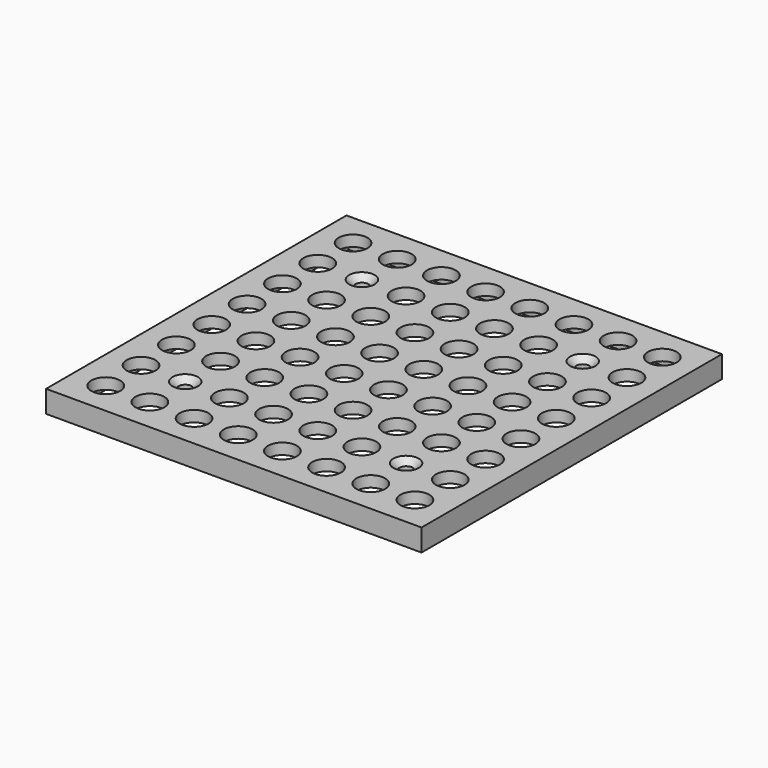
from build123d import *

# Parameters (mm, degrees)
F0_W           = 85
F0_H           = 85
F0_W_2         = 80
F0_H_2         = 80
F1_DEPTH       = 5
F0_R           = 3.25
F2_DEPTH       = 2.5
F3_D           = 3
F3_CSINK_D     = 5.75
F3_CSINK_ANGLE = 90


with BuildPart() as f1:
    # F0 (on Top) → F1 (new body)
    with BuildSketch(Plane.XY):
        Rectangle(F0_W, F0_H)
        Rectangle(F0_W_2, F0_H_2, mode=Mode.SUBTRACT)
    extrude(amount=-F1_DEPTH)

    # F0 (on Top) → F2 (join)
    with BuildSketch(Plane.XY):
        Rectangle(F0_W_2, F0_H_2)
        with Locations((-35, -35)):
            Circle(F0_R, mode=Mode.SUBTRACT)
        with Locations((-25, -35)):
            Circle(F0_R, mode=Mode.SUBTRACT)
        with Locations((-35, -25)):
            Circle(F0_R, mode=Mode.SUBTRACT)
        with Locations((-15, -35)):
            Circle(F0_R, mode=Mode.SUBTRACT)
        with Locations((-5, -35)):
            Circle(F0_R, mode=Mode.SUBTRACT)
        with Locations((-15, -25)):
            Circle(F0_R, mode=Mode.SUBTRACT)
        with Locations((-5, -25)):
            Circle(F0_R, mode=Mode.SUBTRACT)
        with Locations((-35, -15)):
            Circle(F0_R, mode=Mode.SUBTRACT)
        with Locations((-25, -15)):
            Circle(F0_R, mode=Mode.SUBTRACT)
        with Locations((-35, -5)):
            Circle(F0_R, mode=Mode.SUBTRACT)
        with Locations((-25, -5)):
            Circle(F0_R, mode=Mode.SUBTRACT)
        with Locations((-15, -15)):
            Circle(F0_R, mode=Mode.SUBTRACT)
        with Locations((-5, -15)):
            Circle(F0_R, mode=Mode.SUBTRACT)
        with Locations((-15, -5)):
            Circle(F0_R, mode=Mode.SUBTRACT)
        with Locations((-5, -5)):
            Circle(F0_R, mode=Mode.SUBTRACT)
        with Locations((5, -35)):
            Circle(F0_R, mode=Mode.SUBTRACT)
        with Locations((15, -35)):
            Circle(F0_R, mode=Mode.SUBTRACT)
        with Locations((5, -25)):
            Circle(F0_R, mode=Mode.SUBTRACT)
        with Locations((15, -25)):
            Circle(F0_R, mode=Mode.SUBTRACT)
        with Locations((25, -35)):
            Circle(F0_R, mode=Mode.SUBTRACT)
        with Locations((35, -35)):
            Circle(F0_R, mode=Mode.SUBTRACT)
        with Locations((35, -25)):
            Circle(F0_R, mode=Mode.SUBTRACT)
        with Locations((5, -15)):
            Circle(F0_R, mode=Mode.SUBTRACT)
        with Locations((15, -15)):
            Circle(F0_R, mode=Mode.SUBTRACT)
        with Locations((5, -5)):
            Circle(F0_R, mode=Mode.SUBTRACT)
        with Locations((15, -5)):
            Circle(F0_R, mode=Mode.SUBTRACT)
        with Locations((25, -15)):
            Circle(F0_R, mode=Mode.SUBTRACT)
        with Locations((35, -15)):
            Circle(F0_R, mode=Mode.SUBTRACT)
        with Locations((25, -5)):
            Circle(F0_R, mode=Mode.SUBTRACT)
        with Locations((35, -5)):
            Circle(F0_R, mode=Mode.SUBTRACT)
        with Locations((-35, 5)):
            Circle(F0_R, mode=Mode.SUBTRACT)
        with Locations((-25, 5)):
            Circle(F0_R, mode=Mode.SUBTRACT)
        with Locations((-35, 15)):
            Circle(F0_R, mode=Mode.SUBTRACT)
        with Locations((-25, 15)):
            Circle(F0_R, mode=Mode.SUBTRACT)
        with Locations((-15, 5)):
            Circle(F0_R, mode=Mode.SUBTRACT)
        with Locations((-5, 5)):
            Circle(F0_R, mode=Mode.SUBTRACT)
        with Locations((-15, 15)):
            Circle(F0_R, mode=Mode.SUBTRACT)
        with Locations((-5, 15)):
            Circle(F0_R, mode=Mode.SUBTRACT)
        with Locations((-35, 25)):
            Circle(F0_R, mode=Mode.SUBTRACT)
        with Locations((-35, 35)):
            Circle(F0_R, mode=Mode.SUBTRACT)
        with Locations((-25, 35)):
            Circle(F0_R, mode=Mode.SUBTRACT)
        with Locations((-15, 25)):
            Circle(F0_R, mode=Mode.SUBTRACT)
        with Locations((-5, 25)):
            Circle(F0_R, mode=Mode.SUBTRACT)
        with Locations((-15, 35)):
            Circle(F0_R, mode=Mode.SUBTRACT)
        with Locations((-5, 35)):
            Circle(F0_R, mode=Mode.SUBTRACT)
        with Locations((5, 5)):
            Circle(F0_R, mode=Mode.SUBTRACT)
        with Locations((15, 5)):
            Circle(F0_R, mode=Mode.SUBTRACT)
        with Locations((5, 15)):
            Circle(F0_R, mode=Mode.SUBTRACT)
        with Locations((15, 15)):
            Circle(F0_R, mode=Mode.SUBTRACT)
        with Locations((25, 5)):
            Circle(F0_R, mode=Mode.SUBTRACT)
        with Locations((35, 5)):
            Circle(F0_R, mode=Mode.SUBTRACT)
        with Locations((25, 15)):
            Circle(F0_R, mode=Mode.SUBTRACT)
        with Locations((35, 15)):
            Circle(F0_R, mode=Mode.SUBTRACT)
        with Locations((5, 25)):
            Circle(F0_R, mode=Mode.SUBTRACT)
        with Locations((15, 25)):
            Circle(F0_R, mode=Mode.SUBTRACT)
        with Locations((5, 35)):
            Circle(F0_R, mode=Mode.SUBTRACT)
        with Locations((15, 35)):
            Circle(F0_R, mode=Mode.SUBTRACT)
        with Locations((35, 25)):
            Circle(F0_R, mode=Mode.SUBTRACT)
        with Locations((25, 35)):
            Circle(F0_R, mode=Mode.SUBTRACT)
        with Locations((35, 35)):
            Circle(F0_R, mode=Mode.SUBTRACT)
    extrude(amount=-F2_DEPTH)

    # F3 (through all)
    with Locations(Plane.XY):
        with Locations((-25, 25), (25, 25), (25, -25), (-25, -25)):
            CounterSinkHole(F3_D / 2, F3_CSINK_D / 2, counter_sink_angle=F3_CSINK_ANGLE)


solid = f1.part
